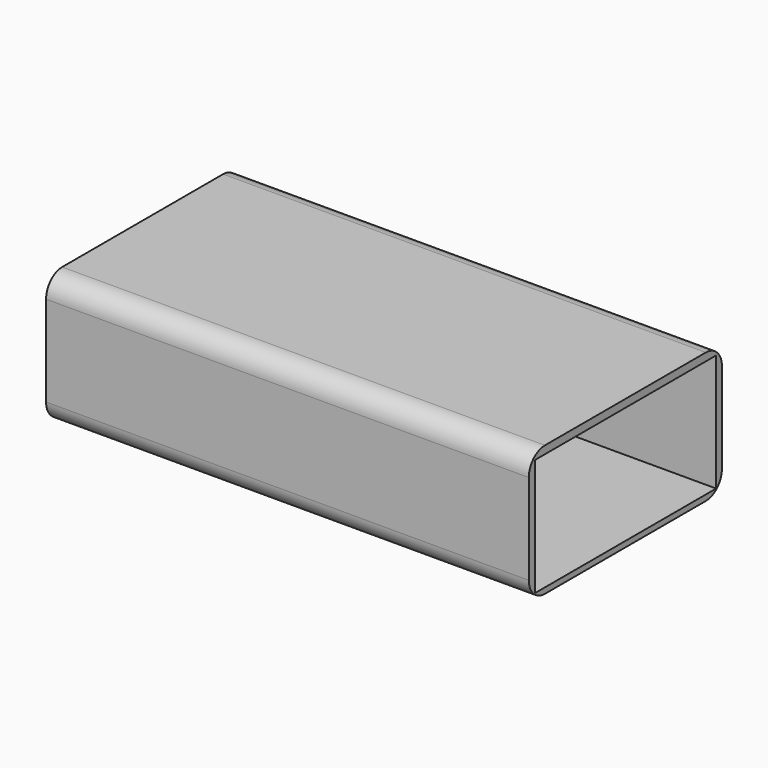
from build123d import *

# Parameters (mm, degrees)
F0_W     = 304.8
F0_H     = 165.1
F0_W_2   = 285.875887
F0_H_2   = 147.979792
F1_DEPTH = 609.6
F2_R     = 25.4


with BuildPart() as f1:
    # F0 (on Right) → F1 (new body)
    with BuildSketch(Plane.YZ):
        with Locations((12.123663, -28.905347)):
            Rectangle(F0_W, F0_H)
        with Locations((12.479082, -30.245209)):
            Rectangle(F0_W_2, F0_H_2, mode=Mode.SUBTRACT)
    extrude(amount=F1_DEPTH)

    # F2
    f2_edges = [f1.edges().sort_by_distance(p)[0] for p in [
        (304.8, -140.276337, 53.644653),
        (304.8, 164.523663, 53.644653),
        (304.8, -140.276337, -111.455347),
        (304.8, 164.523663, -111.455347),
    ]]
    fillet(f2_edges, radius=F2_R)


solid = f1.part
